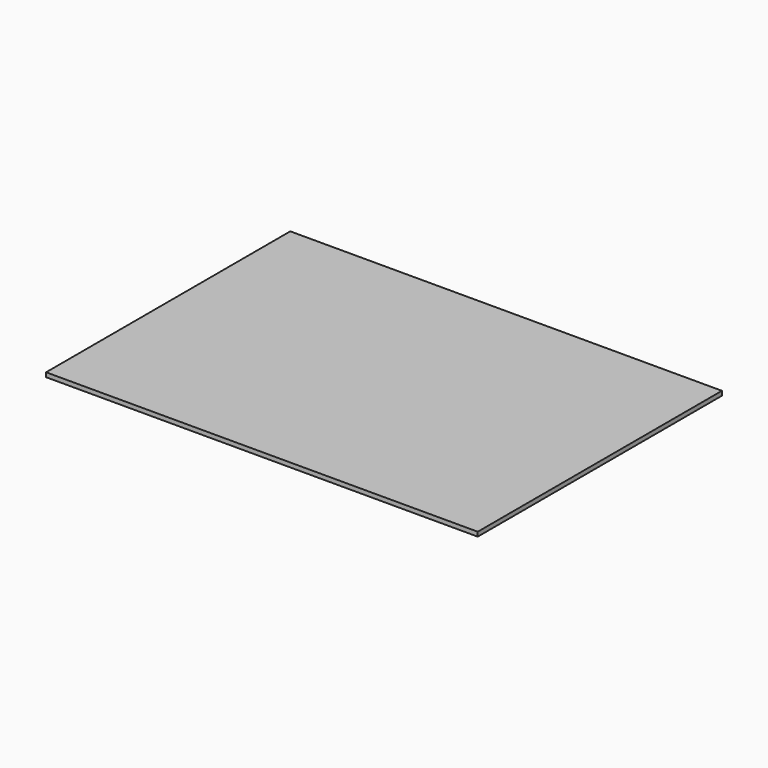
from build123d import *

# Parameters (mm, degrees)
PAD_DEPTH = 3


with BuildPart() as part:
    # Sketch → Pad (new body)
    with BuildSketch(Plane.XY):
        Polygon((0, 210), (297, 210), (297, 0), (0, 0), (0, 105), align=None)
    extrude(amount=PAD_DEPTH)


solid = part.part
